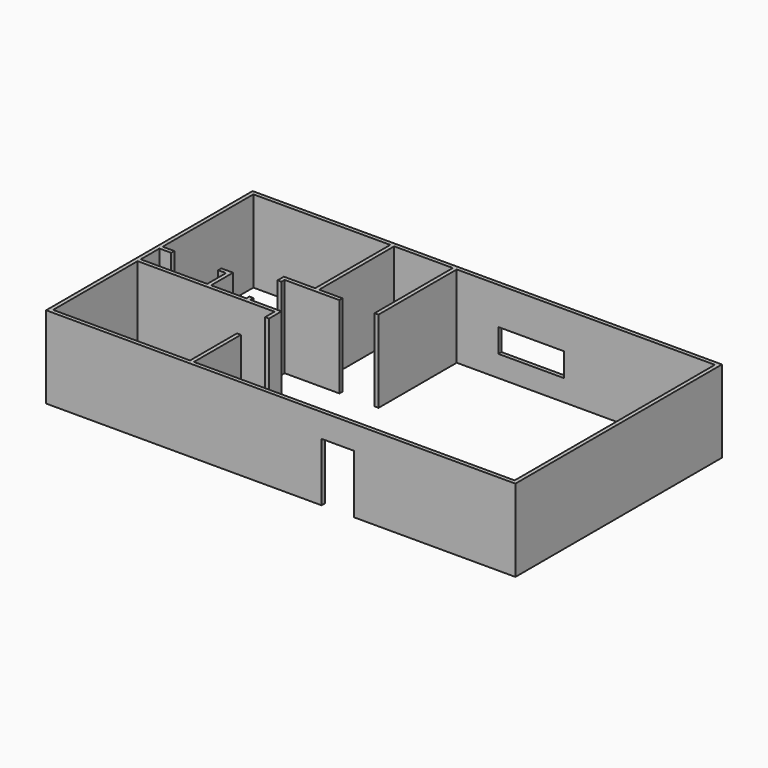
from build123d import *

# Parameters (mm, degrees)
F0_W     = 12192
F0_H     = 6705.6
F1_DEPTH = 2133.6
F2_W     = 839.4492864609
F2_H     = 1520.5647945404
F3_DEPTH = 101.6
F4_W     = 1696.7584192753
F4_H     = 614.5740151405
F5_DEPTH = 101.6


with BuildPart() as f1:
    # F0 (on Top) → F1 (new body)
    with BuildSketch(Plane.XY):
        with Locations((0, 457.2)):
            Rectangle(F0_W, F0_H)
        Polygon((-5994.4, 762), (-5994.4, 3708.4), (-2438.4, 3708.4), (-2438.4, 1270), (-3251.2, 1270), (-3251.2, 1066.8), (-3149.6, 1066.8), (-3149.6, 1168.4), (-2336.8, 1168.4), (-1727.2, 1168.4), (-1727.2, 1270), (-2336.8, 1270), (-2336.8, 3708.4), (-812.8, 3708.4), (-812.8, 1168.4), (-711.2, 1168.4), (-711.2, 3708.4), (5994.4, 3708.4), (5994.4, -2794), (-2336.8, -2794), (-2336.8, -1270), (-2438.4, -1270), (-2438.4, -2794), (-5994.4, -2794), (-5994.4, -50.8), (-2438.4, -50.8), (-2438.4, -355.6), (-2336.8, -355.6), (-2336.8, 50.8), (-3149.6, 50.8), (-3149.6, 152.4), (-3251.2, 152.4), (-3251.2, 50.8), (-4165.6, 50.8), (-4165.6, 762), (-4470.4, 762), (-4470.4, 660.4), (-4267.2, 660.4), (-4267.2, 50.8), (-5994.4, 50.8), (-5994.4, 660.4), (-5689.6, 660.4), (-5689.6, 762), align=None, mode=Mode.SUBTRACT)
    extrude(amount=F1_DEPTH)

    # F2 (on face) → F3 (cut, through all)
    with BuildSketch(Plane.XZ.offset(2895.6)):
        with Locations((1482.1525216103, 760.2823972702)):
            Rectangle(F2_W, F2_H)
    extrude(amount=-F3_DEPTH, mode=Mode.SUBTRACT)

    # F4 (on face) → F5 (cut, through all)
    with BuildSketch(Plane(origin=(0, 3810, 0), x_dir=(-1, 0, 0), z_dir=(0, 1, 0))):
        with Locations((-1222.4678248167, 861.6962134838)):
            Rectangle(F4_W, F4_H)
    extrude(amount=-F5_DEPTH, mode=Mode.SUBTRACT)


solid = f1.part
